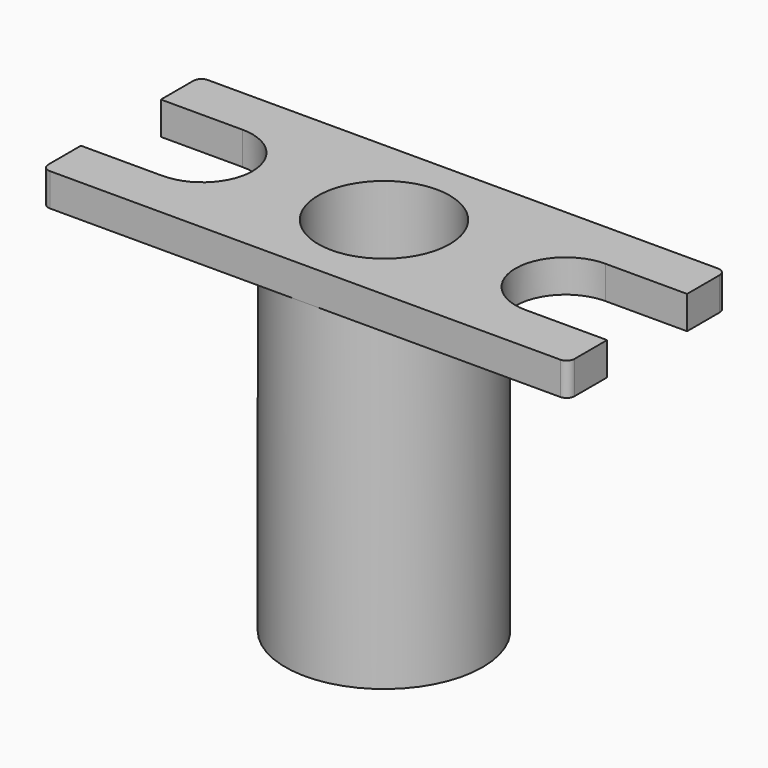
from build123d import *

# Parameters (mm, degrees)
F1_DEPTH = 6.35
F2_R     = 1.524
F3_R     = 19.05
F4_DEPTH = 63.5
F5_R     = 4.7625
F6_DEPTH = 69.851
F7_R     = 12.7
F8_DEPTH = 63.5


with BuildPart() as f1:
    # F0 (on Top) → F1 (new body)
    with BuildSketch(Plane.XY):
        with BuildLine():
            Line((50.8, 19.05), (-50.8, 19.05))
            Line((-50.8, 19.05), (-50.8, 9.652))
            Line((-50.8, 9.652), (-35.052, 9.652))
            ThreePointArc((-35.052, 9.652), (-25.4, 0), (-35.052, -9.652))
            Line((-35.052, -9.652), (-50.8, -9.652))
            Line((-50.8, -9.652), (-50.8, -19.05))
            Line((-50.8, -19.05), (50.8, -19.05))
            Line((50.8, -19.05), (50.8, -9.652))
            Line((50.8, -9.652), (35.052, -9.652))
            ThreePointArc((35.052, -9.652), (25.4, 0), (35.052, 9.652))
            Line((35.052, 9.652), (50.8, 9.652))
            Line((50.8, 9.652), (50.8, 19.05))
        make_face()
    extrude(amount=F1_DEPTH)

    # F2
    f2_edges = [f1.edges().sort_by_distance(p)[0] for p in [
        (-50.8, 19.05, 3.175),
        (-50.8, -19.05, 3.175),
        (50.8, -19.05, 3.175),
        (50.8, 19.05, 3.175),
    ]]
    fillet(f2_edges, radius=F2_R)

    # F3 (on face) → F4 (join)
    with BuildSketch(Plane(origin=(0, 0, 0), x_dir=(1, 0, 0), z_dir=(0, 0, -1))):
        Circle(F3_R)
    extrude(amount=F4_DEPTH)

    # F5 (on face) → F6 (cut, through all)
    with BuildSketch(Plane(origin=(0, 0, -63.5), x_dir=(1, 0, 0), z_dir=(0, 0, -1))):
        Circle(F5_R)
    extrude(amount=-F6_DEPTH, mode=Mode.SUBTRACT)

    # F7 (on face) → F8 (cut)
    with BuildSketch(Plane.XY.offset(6.35)):
        Circle(F7_R)
    extrude(amount=-F8_DEPTH, mode=Mode.SUBTRACT)


solid = f1.part
